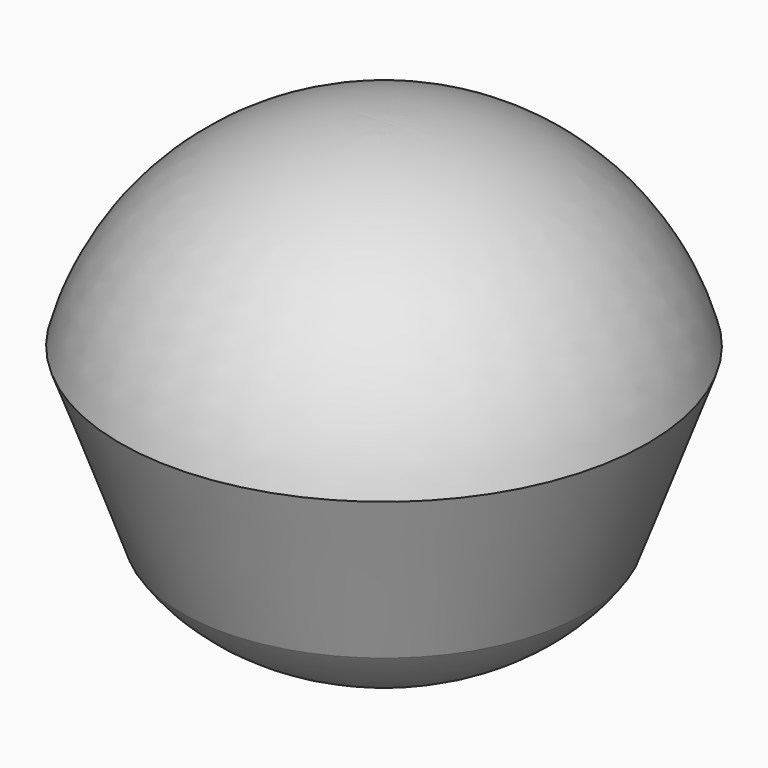
from build123d import *


with BuildPart() as f1:
    # F0 (on Front) → F1 (revolve)
    with BuildSketch(Plane.XZ):
        with BuildLine():
            Line((-49.1534881294, 34.6422344446), (-45.0113533996, 23.2340665346))
            add(Edge.make_bspline(
                [(-45.0113533996, 23.2340665346), (-40.8572068688, 16.8413310454), (-31.3954688609, 16.8222483788)],
                knots=[0.4545358056, 0.4545358056, 0.4545358056, 1.5681143564, 1.5681143564, 1.5681143564], degree=2, weights=[1, 0.8489562336, 1]))
            Line((-31.3954688609, 16.8222483788), (-31.3954688609, 47.900776189))
            ThreePointArc((-31.3954688609, 47.900776189), (-42.5516534484, 44.3214724608), (-49.1534881294, 34.6422344446))
        make_face()
    revolve(axis=Axis((-31.3954688609, 0, 32.1937899571), (0, 0, -1)))


solid = f1.part
